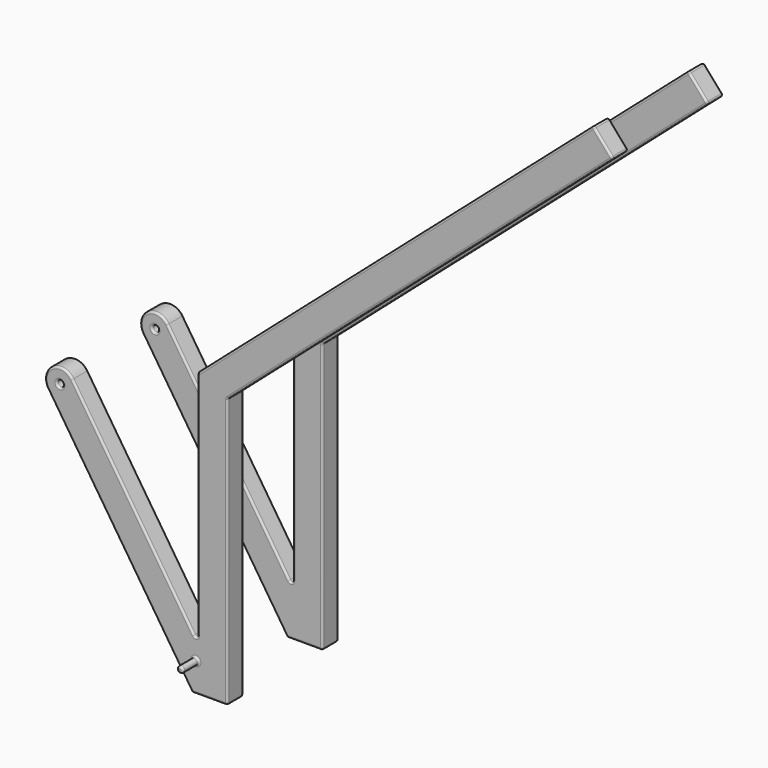
from build123d import *

# Parameters (mm, degrees)
F0_R     = 3.96875
F1_DEPTH = 50.8
F2_DEPTH = 25.4
F3_R     = 2.54


with BuildPart() as f1:
    # F0 (on Front) → F1 (new body)
    with BuildSketch(Plane.XZ):
        with Locations((-40.5338294804, 37.2322909534)):
            Circle(F0_R)
    extrude(amount=F1_DEPTH)

    # F0 (on Front) → F2 (join)
    with BuildSketch(Plane.XZ):
        with BuildLine():
            ThreePointArc((-198.7364066883, 303.2569390225), (-225.1115355088, 308.7485307502), (-230.6031272365, 282.3734019298))
            Line((-230.6031272365, 282.3734019298), (-45.5525380405, 0))
            Line((-45.5525380405, 0), (0, 0))
            Line((0, 0), (0, 345.6348647904))
            Line((0, 345.6348647904), (493.8067720323, 777.1724824565))
            Line((493.8067720323, 777.1724824565), (468.7356286931, 805.8612916278))
            Line((468.7356286931, 805.8612916278), (-38.1, 362.9377593028))
            Line((-38.1, 362.9377593028), (-38.1, 58.1377593028))
            Line((-38.1, 58.1377593028), (-198.7364066883, 303.2569390225))
        make_face()
        with Locations((-214.6697669624, 292.8151704761)):
            Circle(F0_R, mode=Mode.SUBTRACT)
        with Locations((-40.5338294804, 37.2322909534)):
            Circle(F0_R, mode=Mode.SUBTRACT)
    extrude(amount=F2_DEPTH)

    # F3
    f3_edges = [f1.edges().sort_by_distance(p)[0] for p in [
        (-38.1, -12.7, 362.937759),
        (-38.1, -12.7, 58.137759),
        (-38.1, 0, 210.537759),
        (-38.1, -25.4, 210.537759),
        (0, -12.7, 0),
        (0, -12.7, 345.634865),
        (0, 0, 172.817432),
        (0, -25.4, 172.817432),
        (-198.736407, -12.7, 303.256939),
        (-118.418203, 0, 180.697349),
        (-118.418203, -25.4, 180.697349),
        (-230.603127, -12.7, 282.373402),
        (-45.552538, -12.7, 0),
        (-138.077833, 0, 141.186701),
        (-138.077833, -25.4, 141.186701),
        (-225.111536, -25.4, 308.748531),
        (-22.776269, -25.4, 0),
        (246.903386, -25.4, 561.403674),
        (481.2712, -25.4, 791.516887),
        (215.317814, -25.4, 584.399525),
        (-218.638517, -25.4, 292.81517),
        (-44.502579, -25.4, 37.232291),
        (215.317814, 0, 584.399525),
        (-225.111536, 0, 308.748531),
        (-22.776269, 0, 0),
        (246.903386, 0, 561.403674),
        (481.2712, 0, 791.516887),
        (-218.638517, 0, 292.81517),
        (493.806772, -12.7, 777.172482),
        (468.735629, -12.7, 805.861292),
        (-36.565079, -38.1, 37.232291),
        (-44.502579, -50.8, 37.232291),
        (-210.701017, -12.7, 292.81517),
    ]]
    fillet(f3_edges, radius=F3_R)


with BuildPart() as f4_1:
    # F4: copy of F1
    add(f1.part.moved(Location((0, 127, 0))))


with BuildPart() as f5_1:
    # F5: instance of F4_1
    add(f4_1.part.mirror(Plane(origin=(76.0844653417, 127, 366.9413747585), x_dir=(-1, 0, 0), z_dir=(0, 1, 0))))


solid = Compound([f1.part, f5_1.part])
